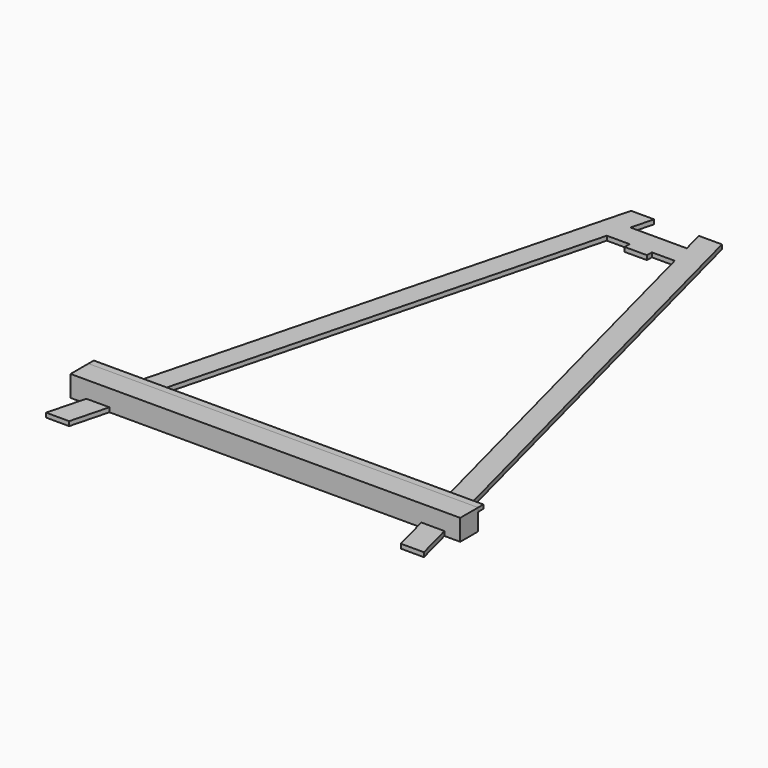
from build123d import *

# Parameters (mm, degrees)
F1_DEPTH  = 5
F3_DEPTH  = 24
F4_W      = 25.4
F4_H      = 5
F5_DEPTH  = 7
F7_W      = 508
F7_H      = 81.5656109944
F8_DEPTH  = 7.62
F9_W      = 442.976
F9_H      = 4.38
F10_DEPTH = 7.62


with BuildPart() as f1:
    # F0 (on Top) → F1 (new body)
    with BuildSketch(Plane.XY):
        Polygon((-29.2173255483, 522.40974645), (-22.6133255483, 547.80974645), (-48.8578071778, 547.80974645), (-187.7133255483, 13.7500604096), (-187.7133255483, -87.19025355), (-174.5053255483, -36.39025355), (-167.9013255483, -10.99025355), (-35.8213255483, 497.00974645), align=None)
        Polygon((34.7906744517, 522.40974645), (-29.2173255483, 522.40974645), (-35.8213255483, 497.00974645), (41.3946744517, 497.00974645), align=None)
        Polygon((54.4311560812, 547.80974645), (28.1866744517, 547.80974645), (34.7906744517, 522.40974645), (41.3946744517, 497.00974645), (173.4746744517, -10.99025355), (180.0786744517, -36.39025355), (193.2866744517, -87.19025355), (193.2866744517, 13.7500604096), align=None)
        Polygon((173.4746744517, -10.99025355), (-167.9013255483, -10.99025355), (-174.5053255483, -36.39025355), (180.0786744517, -36.39025355), align=None)
        Polygon((-187.7133255483, -87.19025355), (-187.7133255483, 13.7500604096), (-212.2960172207, -80.7987537151), align=None)
        Polygon((217.8693661241, -80.7987537151), (193.2866744517, 13.7500604096), (193.2866744517, -87.19025355), align=None)
    extrude(amount=F1_DEPTH)

    # F2 (on face) → F3 (join)
    with BuildSketch(Plane(origin=(0, 0, 0), x_dir=(1, 0, 0), z_dir=(0, 0, -1))):
        Polygon((-218.7013255483, 10.99025355), (-167.9013255483, 10.99025355), (173.4746744517, 10.99025355), (224.2746744517, 10.99025355), (224.2746744517, 36.39025355), (180.0786744517, 36.39025355), (-174.5053255483, 36.39025355), (-218.7013255483, 36.39025355), align=None)
    extrude(amount=-F3_DEPTH)

    # F4 (on face) → F5 (join)
    with BuildSketch(Plane.XZ.offset(-497.00974645)):
        with Locations((2.7866744517, 2.5)):
            Rectangle(F4_W, F4_H)
    extrude(amount=F5_DEPTH)

    # F7 (on 3pt) → F8 (cut)
    with BuildSketch(Plane.XZ.offset(87.19025355)):
        with Locations((4.5045018196, 1.0812641121)):
            Rectangle(F7_W, F7_H)
    extrude(amount=-F8_DEPTH, mode=Mode.SUBTRACT)


with BuildPart() as f10:
    # F9 (on face) → F10 (new body)
    with BuildSketch(Plane(origin=(0, -10.99025355, 0), x_dir=(-1, 0, 0), z_dir=(0, 1, 0))):
        with Locations((-2.7866744517, 21.81)):
            Rectangle(F9_W, F9_H)
    extrude(amount=F10_DEPTH)


solid = Compound([f1.part, f10.part])
